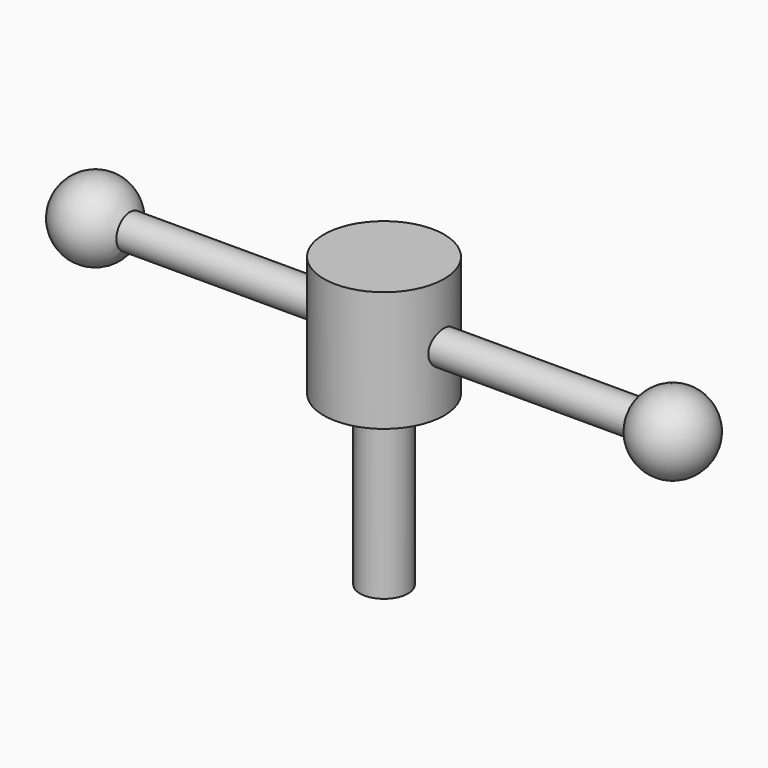
from build123d import *

# Parameters (mm, degrees)
F0_R          = 15.875
F0_R_2        = 6.35
F1_DEPTH      = 31.75
F2_DEPTH      = 31.75
F2_DEPTH_BACK = 44.45
F3_R          = 4.445
F4_DEPTH      = 76.2
F4_DEPTH_BACK = 76.2


with BuildPart() as f1:
    # F0 (on Top) → F1 (new body)
    with BuildSketch(Plane.XY):
        Circle(F0_R)
        Circle(F0_R_2, mode=Mode.SUBTRACT)
    extrude(amount=F1_DEPTH)

    # F0 (on Top) → F2 (join, two sides)
    with BuildSketch(Plane.XY) as f2_sk:
        Circle(F0_R_2)
    extrude(amount=F2_DEPTH)
    extrude(f2_sk.sketch, amount=-F2_DEPTH_BACK)

    # F3 (on Right) → F4 (join, two sides)
    with BuildSketch(Plane.YZ) as f4_sk:
        with Locations((0, 15.875)):
            Circle(F3_R)
    extrude(amount=F4_DEPTH)
    extrude(f4_sk.sketch, amount=-F4_DEPTH_BACK)

    # F5 (on face) → F6 (revolve)
    with BuildSketch(Plane.YZ.offset(76.2)):
        with BuildLine():
            Line((4.445, 15.875), (10.16, 15.875))
            ThreePointArc((10.16, 15.875), (0, 26.035), (-10.16, 15.875))
            Line((-10.16, 15.875), (-4.445, 15.875))
            ThreePointArc((-4.445, 15.875), (0, 20.32), (4.445, 15.875))
        make_face()
        with BuildLine():
            Line((-4.445, 15.875), (4.445, 15.875))
            ThreePointArc((4.445, 15.875), (0, 20.32), (-4.445, 15.875))
        make_face()
        with BuildLine():
            ThreePointArc((-4.445, 15.875), (0, 11.43), (4.445, 15.875))
            Line((4.445, 15.875), (-4.445, 15.875))
        make_face()
    revolve(axis=Axis((76.2, 0, 15.875), (0, 1, 0)))

    # F7 (on face) → F8 (revolve)
    with BuildSketch(Plane(origin=(-76.2, 0, 0), x_dir=(0, -1, 0), z_dir=(-1, 0, 0))):
        with BuildLine():
            Line((4.445, 15.875), (10.16, 15.875))
            ThreePointArc((10.16, 15.875), (0, 26.035), (-10.16, 15.875))
            Line((-10.16, 15.875), (-4.445, 15.875))
            ThreePointArc((-4.445, 15.875), (0, 20.32), (4.445, 15.875))
        make_face()
        with BuildLine():
            Line((-4.445, 15.875), (4.445, 15.875))
            ThreePointArc((4.445, 15.875), (0, 20.32), (-4.445, 15.875))
        make_face()
        with BuildLine():
            ThreePointArc((-4.445, 15.875), (0, 11.43), (4.445, 15.875))
            Line((4.445, 15.875), (-4.445, 15.875))
        make_face()
    revolve(axis=Axis((-76.2, 0, 15.875), (0, -1, 0)))


solid = f1.part
